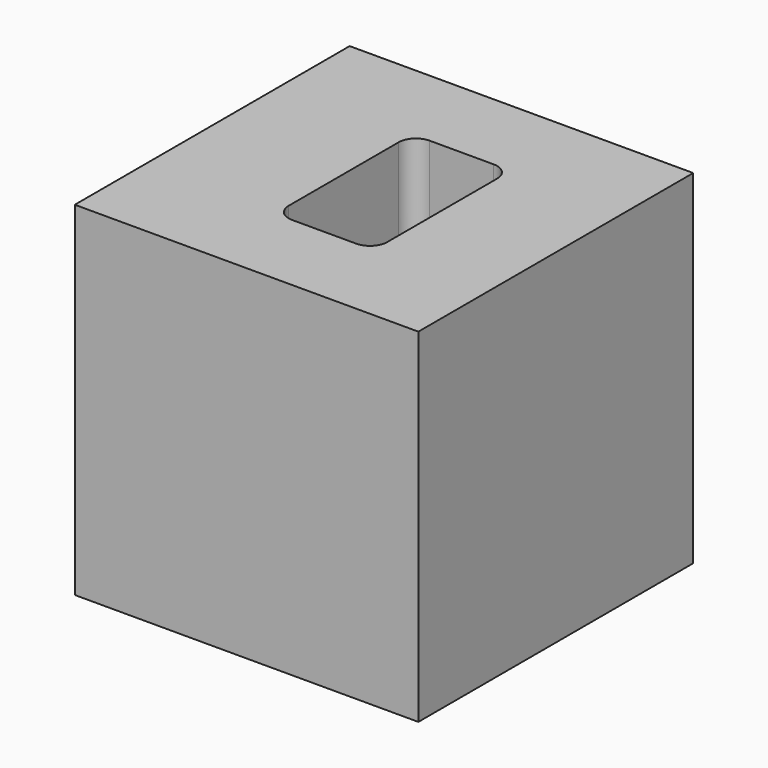
from build123d import *

# Parameters (mm, degrees)
F0_W     = 101.6
F0_H     = 101.6
F1_DEPTH = 50.8
F2_W     = 17.7085362375
F2_H     = 30.314616859
F2_W_2   = 19.2092582583
F3_DEPTH = 25.4
F5_R     = 5.08


with BuildPart() as f1:
    # F0 (on Front) → F1 (new body)
    with BuildSketch(Plane.XZ):
        with Locations((50.8, 50.8)):
            Rectangle(F0_W, F0_H)
    extrude(amount=F1_DEPTH)

    # F2 (on face) → F3 (cut)
    with BuildSketch(Plane.XZ.offset(50.8)):
        Polygon((68.001665175, 101.6), (38.8876236975, 101.6), (38.8876236975, 62.298912555), (38.8876236975, 31.984295696), (68.001665175, 31.984295696), (68.001665175, 62.298912555), align=None)
        with Locations((30.0333555788, 47.1416041255)):
            Rectangle(F2_W, F2_H)
        with Locations((77.6062943041, 47.1416041255)):
            Rectangle(F2_W_2, F2_H)
    extrude(amount=-F3_DEPTH, mode=Mode.SUBTRACT)

    # F4: F1 across face


with BuildPart() as f1_1:
    add(f1.part)
    add(f1.part.mirror(Plane(origin=(49.4313994673, -50.8, 46.8540587323), x_dir=(1, 0, 0), z_dir=(0, -1, 0))))

    # F5
    f5_edges = [f1_1.edges().sort_by_distance(p)[0] for p in [
        (68.001665, -25.4, 81.949456),
        (38.887624, -25.4, 81.949456),
        (68.001665, -76.2, 81.949456),
        (38.887624, -76.2, 81.949456),
    ]]
    fillet(f5_edges, radius=F5_R)


solid = f1_1.part
